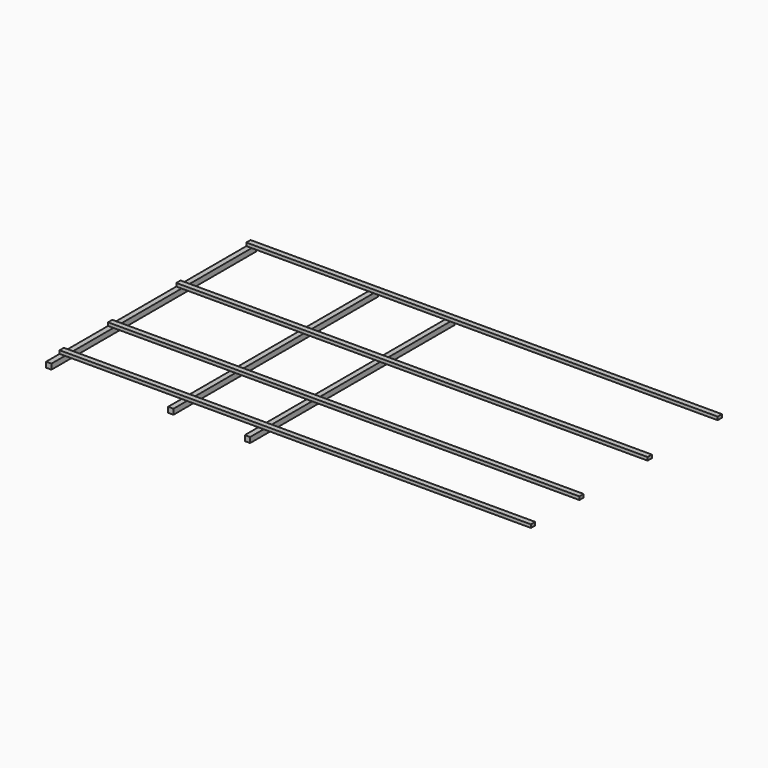
from build123d import *

# Parameters (mm, degrees)
F0_W     = 75
F0_H     = 75
F2_DEPTH = 3590
F1_W     = 6620
F1_H     = 75
F3_DEPTH = 45


with BuildPart() as f2:
    # F0 (on Front) → F2 (new body)
    with BuildSketch(Plane.XZ):
        with Locations((37.5, -37.500025)):
            Rectangle(F0_W, F0_H)
        with Locations((2827.991581, -37.500025)):
            Rectangle(F0_W, F0_H)
        with Locations((1751.527847, -37.500025)):
            Rectangle(F0_W, F0_H)
    extrude(amount=F2_DEPTH)


with BuildPart() as f3:
    # F1 (on Top) → F3 (new body)
    with BuildSketch(Plane.XY):
        with Locations((3310, -37.5)):
            Rectangle(F1_W, F1_H)
        with Locations((3310, -2464.771456)):
            Rectangle(F1_W, F1_H)
        with Locations((3310, -1267.116165)):
            Rectangle(F1_W, F1_H)
        with Locations((3310, -3314.770842)):
            Rectangle(F1_W, F1_H)
    extrude(amount=F3_DEPTH)


solid = Compound([f2.part, f3.part])
